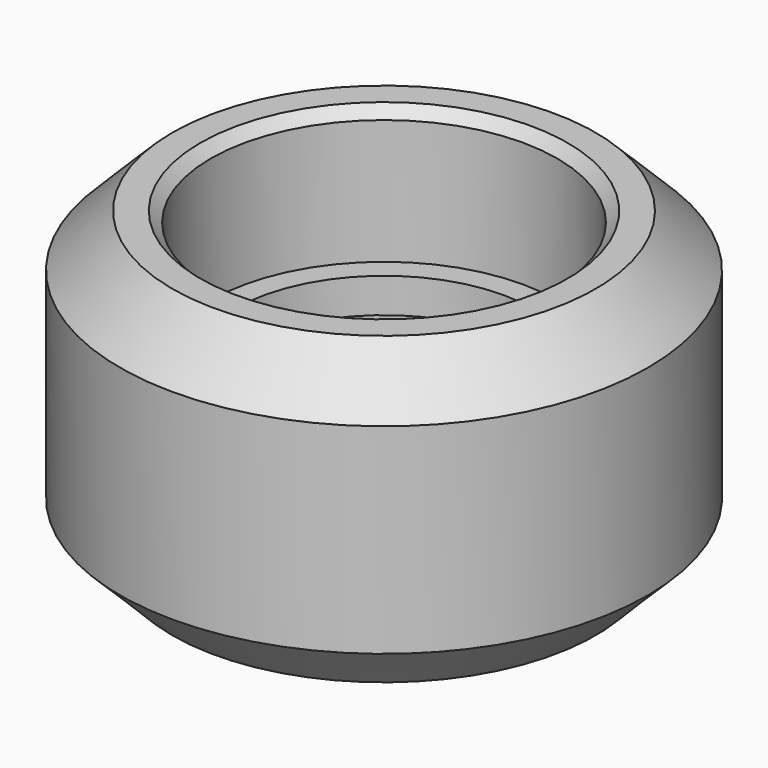
from build123d import *


with BuildPart() as f1:
    # F0 (on Front) → F1 (revolve)
    with BuildSketch(Plane.XZ):
        Polygon((-5, 4.1), (-5.3, 4.4), (-6.105, 4.4), (-7.615, 2.89), (-7.615, -2.89), (-6.105, -4.4), (-5.3, -4.4), (-5, -4.1), (-5, -0.5), (-4.32, -0.5), (-4.32, 0.5), (-5, 0.5), align=None)
    revolve(axis=Axis((0, 0, 0), (0, 0, 1)))


with BuildPart() as f2:
    # F0 (on Front) → F2 (revolve)
    with BuildSketch(Plane.XZ):
        Polygon((-5, 4.1), (-5.3, 4.4), (-6.105, 4.4), (-7.615, 2.89), (-7.615, -2.89), (-6.105, -4.4), (-5.3, -4.4), (-5, -4.1), (-5, -0.5), (-4.32, -0.5), (-4.32, 0.5), (-5, 0.5), align=None)
    revolve(axis=Axis((0, 0, 0), (0, 0, 1)))


solid = Compound([f1.part, f2.part])
